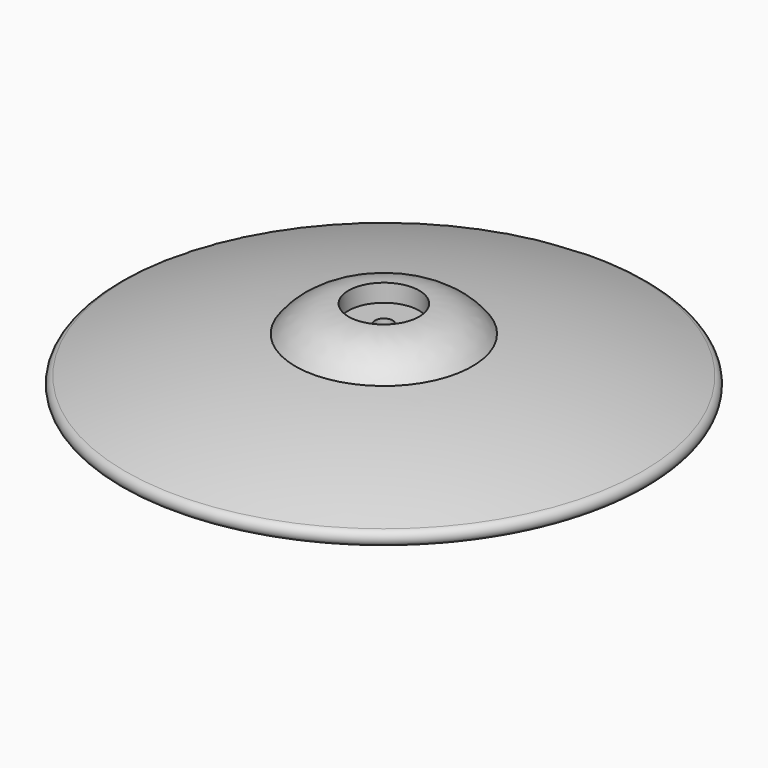
from build123d import *


with BuildPart() as f2:
    # F0 (on Front) → F2 (revolve)
    with BuildSketch(Plane.XZ):
        with BuildLine():
            Line((-5, 20.199455), (-5, 36))
            Line((-5, 36), (-20, 36))
            Line((-20, 36), (-20, 46))
            ThreePointArc((-20, 46), (-36.827675, 42.155349), (-50, 31))
            ThreePointArc((-50, 31), (-98.689635, 23.220334), (-146.191493, 10))
            ThreePointArc((-146.191493, 10), (-148.500294, 3.537347), (-141.639501, 3.698492))
            ThreePointArc((-141.639501, 3.698492), (-81.131738, 14.248836), (-20, 20.199455))
            Line((-20, 20.199455), (-5, 20.199455))
        make_face()
    revolve(axis=Axis((0, 0, 37.657302), (0, 0, 1)))


solid = f2.part
